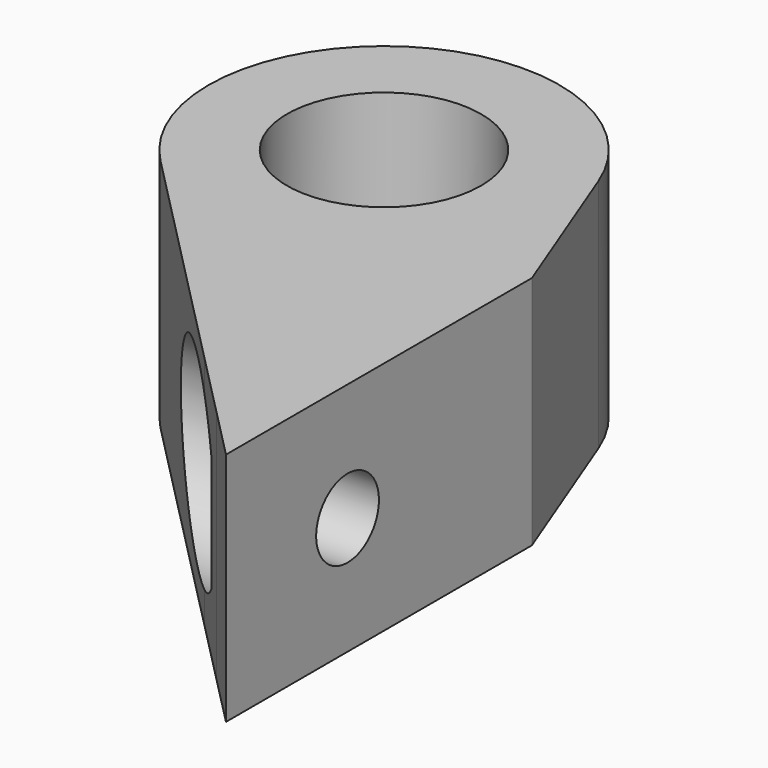
from build123d import *

# Parameters (mm, degrees)
F0_R     = 2.475
F0_W     = 1.275
F0_H     = 4.75
F1_DEPTH = 6
F2_R     = 1
F3_DEPTH = 6.1501615181
F4_R     = 2.375
F4_R_2   = 1
F5_DEPTH = 2
F6_DEPTH = 2
F7_DEPTH = 25


with BuildPart() as f1:
    # F0 (on Top) → F1 (new body)
    with BuildSketch(Plane.XY):
        Polygon((-10.775, -9.0130328), (-12.4515975287, -9.0130328), (-10.775, -10.7171244104), align=None)
        with BuildLine():
            ThreePointArc((-18.4399316357, -2.9264975775), (-13.5543171095, -3.9293230017), (-10.775, 0.2119672))
            ThreePointArc((-10.775, 0.2119672), (-10.850506469, 1.0305523641), (-11.0744778417, 1.8215136285))
            ThreePointArc((-11.0744778417, 1.8215136285), (-17.6746133243, 3.9732004057), (-18.4399316357, -2.9264975775))
        make_face()
        with Locations((-15.25, 0.2119672)):
            Circle(F0_R, mode=Mode.SUBTRACT)
        with BuildLine():
            ThreePointArc((-11.0744778417, 1.8215136285), (-10.850506469, 1.0305523641), (-10.775, 0.2119672))
            Line((-10.775, 0.2119672), (-10.775, -4.2630328))
            Line((-10.775, -4.2630328), (-9.5, -4.2630328))
            Line((-9.5, -4.2630328), (-9.5, -2.2630328))
            Line((-9.5, -2.2630328), (-11.0744778417, 1.8215136285))
        make_face()
        with Locations((-10.1375, -6.6380328)):
            Rectangle(F0_W, F0_H)
        Polygon((-9.5, -9.0130328), (-10.775, -9.0130328), (-10.775, -10.7171244104), (-9.5, -12.0130328), align=None)
        with BuildLine():
            Line((-10.775, -4.2630328), (-10.775, 0.2119672))
            ThreePointArc((-10.775, 0.2119672), (-13.5543171095, -3.9293230017), (-18.4399316357, -2.9264975775))
            Line((-18.4399316357, -2.9264975775), (-12.4515975287, -9.0130328))
            Line((-12.4515975287, -9.0130328), (-10.775, -9.0130328))
            Line((-10.775, -9.0130328), (-10.775, -4.2630328))
        make_face()
    extrude(amount=F1_DEPTH)

    # F2 (on face) → F3 (cut, through all)
    with BuildSketch(Plane.YZ.offset(-9.5)):
        with BuildLine():
            ThreePointArc((-5.7630328, 3), (-8.1380328, 5.375), (-10.5130328, 3))
            ThreePointArc((-10.5130328, 3), (-8.1380328, 0.625), (-5.7630328, 3))
        make_face()
        with Locations((-8.1380328, 3)):
            Circle(F2_R, mode=Mode.SUBTRACT)
        with Locations((-8.1380328, 3)):
            Circle(F2_R)
    extrude(amount=-F3_DEPTH, mode=Mode.SUBTRACT)

    # F4 (on face) → F5 (join)
    with BuildSketch(Plane.YZ.offset(-9.5)):
        with Locations((-8.1380328, 3)):
            Circle(F4_R)
        with Locations((-8.1380328, 3)):
            Circle(F4_R_2, mode=Mode.SUBTRACT)
        with Locations((-8.1380328, 3)):
            Circle(F4_R_2)
    extrude(amount=-F5_DEPTH)

    # F4 (on face) → F6 (cut, through all)
    with BuildSketch(Plane.YZ.offset(-9.5)):
        with Locations((-8.1380328, 3)):
            Circle(F4_R_2)
    extrude(amount=-F6_DEPTH, mode=Mode.SUBTRACT)

    # F0 (on Top) → F7 (cut)
    with BuildSketch(Plane.XY):
        Polygon((-12.4515975287, -9.0130328), (-18.4399316357, -2.9264975775), (-21.0827792011, -5.5267050251), (-12.1428475655, -14.6132402476), (-9.5, -12.0130328), (-10.775, -10.7171244104), align=None)
    extrude(amount=F7_DEPTH, mode=Mode.SUBTRACT)


solid = f1.part
